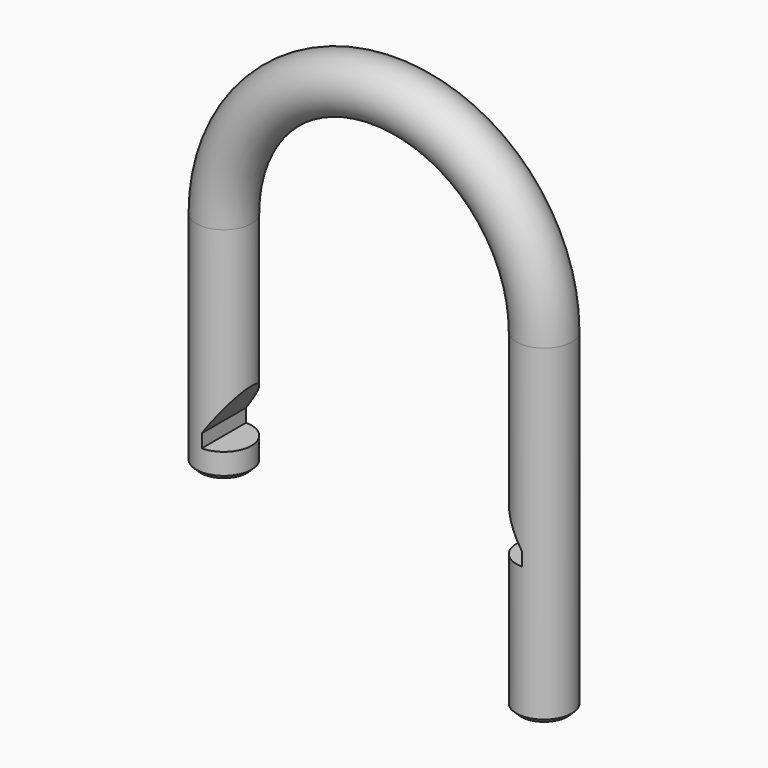
from build123d import *

# Parameters (mm, degrees)
F0_R          = 2.5
F4_DEPTH      = 2.5010001
F4_DEPTH_BACK = 2.5010001
F5_SIZE       = 0.388


with BuildPart() as f2:
    # F2: sweep along a path in F1
    with BuildLine(Plane.XZ) as f2_path:
        Line((0, 0), (0, 30))
        ThreePointArc((0, 30), (-14.5, 44.5), (-29, 30))
        Line((-29, 30), (-29, 10))
    # F0 (on Top) → F2 (sweep)
    with BuildSketch(Plane.XY):
        Circle(F0_R)
    sweep(path=f2_path.line)

    # F3 (on Front) → F4 (cut, two sides)
    with BuildSketch(Plane.XZ) as f4_sk:
        Polygon((-29, 13.5), (-29, 12.3), (-24.9849649455, 12.3), (-24.9849649455, 19.23406431), align=None)
        Polygon((-4.0150350545, 19.23406431), (-4.0150350545, 12.3), (0, 12.3), (0, 13.5), align=None)
    extrude(amount=-F4_DEPTH, mode=Mode.SUBTRACT)
    extrude(f4_sk.sketch, amount=F4_DEPTH_BACK, mode=Mode.SUBTRACT)

    # F5
    f5_edges = [f2.edges().sort_by_distance(p)[0] for p in [
        (-26.5, 0, 10),
        (-2.5, 0, 0),
    ]]
    chamfer(f5_edges, length=F5_SIZE)


solid = f2.part
